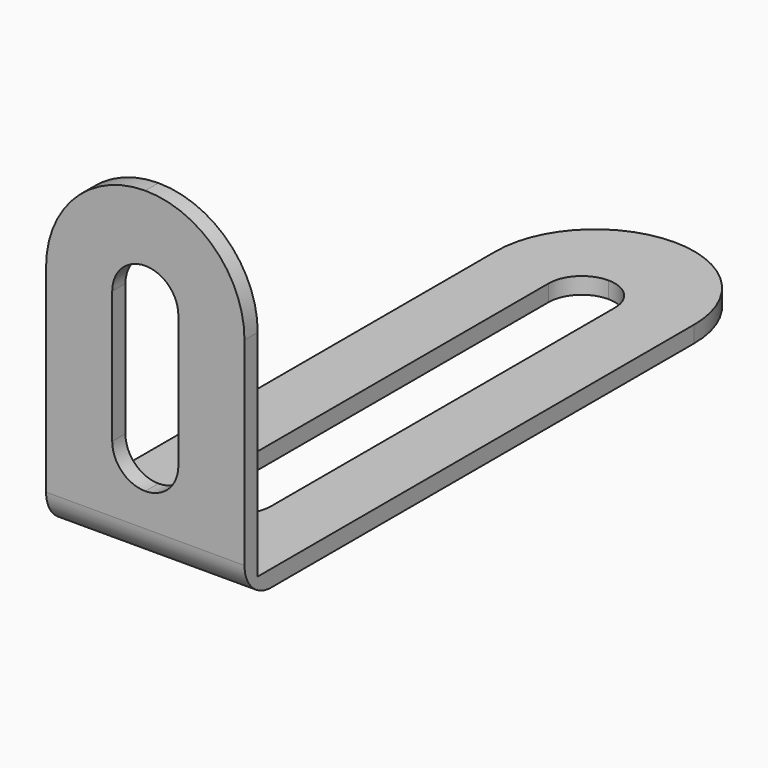
from build123d import *

# Parameters (mm, degrees)
F1_DEPTH = 1
F3_DEPTH = 1
F4_R     = 2


with BuildPart() as f1:
    # F0 (on Front) → F1 (new body)
    with BuildSketch(Plane.XZ):
        with BuildLine():
            Line((-6, -10), (6, -10))
            Line((6, -10), (6, 4))
            ThreePointArc((6, 4), (4.242641, 8.242641), (0, 10))
            ThreePointArc((0, 10), (-4.242641, 8.242641), (-6, 4))
            Line((-6, 4), (-6, -10))
        make_face()
        with BuildLine():
            Line((2, 4), (2, -4))
            ThreePointArc((2, -4), (1.414214, -5.414214), (0, -6))
            ThreePointArc((0, -6), (-1.414214, -5.414214), (-2, -4))
            Line((-2, -4), (-2, 4))
            ThreePointArc((-2, 4), (-1.414214, 5.414214), (0, 6))
            ThreePointArc((0, 6), (1.414214, 5.414214), (2, 4))
        make_face(mode=Mode.SUBTRACT)
    extrude(amount=-F1_DEPTH)

    # F2 (on face) → F3 (join)
    with BuildSketch(Plane(origin=(0, 0, -10), x_dir=(1, 0, 0), z_dir=(0, 0, -1))):
        with BuildLine():
            Line((6, -1), (-6, -1))
            Line((-6, -1), (-6, -34))
            ThreePointArc((-6, -34), (-4.242641, -38.242641), (0, -40))
            ThreePointArc((0, -40), (4.242641, -38.242641), (6, -34))
            Line((6, -34), (6, -1))
        make_face()
        with BuildLine():
            Line((2, -7), (2, -33))
            ThreePointArc((2, -33), (1.414214, -34.414214), (0, -35))
            ThreePointArc((0, -35), (-1.414214, -34.414214), (-2, -33))
            Line((-2, -33), (-2, -7))
            ThreePointArc((-2, -7), (-1.414214, -5.585786), (0, -5))
            ThreePointArc((0, -5), (1.414214, -5.585786), (2, -7))
        make_face(mode=Mode.SUBTRACT)
    extrude(amount=-F3_DEPTH)

    # F4
    f4_edges = [f1.edges().sort_by_distance(p)[0] for p in [
        (0, 0, -10),
    ]]
    fillet(f4_edges, radius=F4_R)


solid = f1.part
